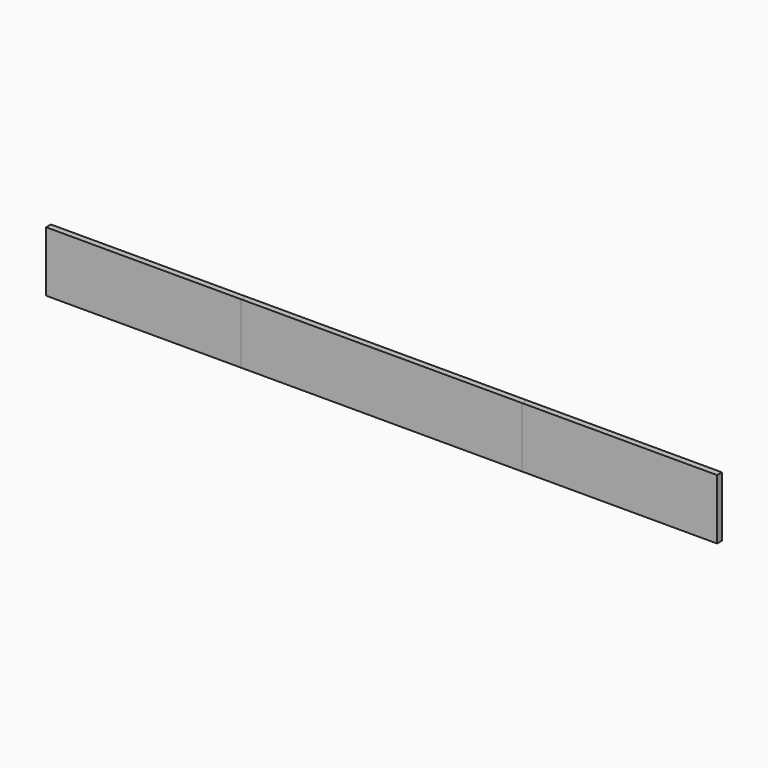
from build123d import *

# Parameters (mm, degrees)
F0_W     = 15
F0_H     = 150
F1_DEPTH = 835
F2_DEPTH = 350


with BuildPart() as f1:
    # F0 (on Right) → F1 (new body, symmetric)
    with BuildSketch(Plane.YZ):
        Rectangle(F0_W, F0_H)
    extrude(amount=F1_DEPTH, both=True)


with BuildPart() as f2:
    # F0 (on Right) → F2 (new body, symmetric)
    with BuildSketch(Plane.YZ):
        Rectangle(F0_W, F0_H)
    extrude(amount=F2_DEPTH, both=True)


solid = Compound([f1.part, f2.part])
